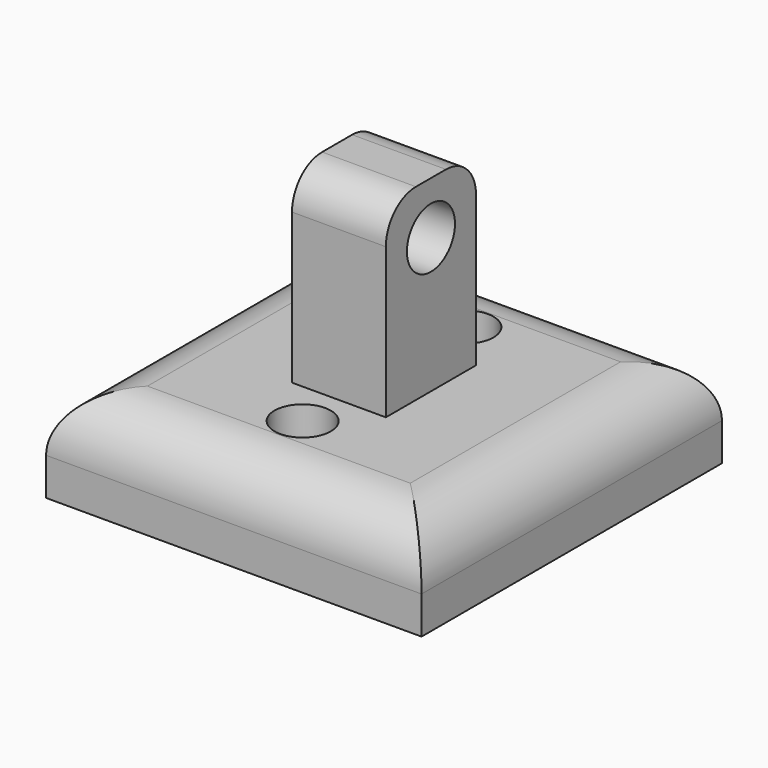
from build123d import *

# Parameters (mm, degrees)
SKETCH_W        = 20
SKETCH_H        = 20
PAD_DEPTH       = 5
SKETCH001_W     = 5
SKETCH001_H     = 6
PAD001_DEPTH    = 10
SKETCH002_R     = 1.6
POCKET_DEPTH    = 12.501
SKETCH003_R     = 1.5
POCKET001_DEPTH = 5.001
FILLET_R        = 3
FILLET001_R     = 2


with BuildPart() as part:
    # Sketch → Pad (new body)
    with BuildSketch(Plane.XY):
        with Locations((-10, 10)):
            Rectangle(SKETCH_W, SKETCH_H)
    extrude(amount=PAD_DEPTH)

    # Sketch001 (on Face6 of Pad) → Pad001 (join)
    with BuildSketch(Plane.XY.offset(5)):
        with Locations((-10, 10)):
            Rectangle(SKETCH001_W, SKETCH001_H)
    extrude(amount=PAD001_DEPTH)

    # Sketch002 (on Face8 of Pad001) → Pocket (cut, through all)
    with BuildSketch(Plane.YZ.offset(-7.5)):
        with Locations((10, 12.205362)):
            Circle(SKETCH002_R)
    extrude(amount=-POCKET_DEPTH, mode=Mode.SUBTRACT)

    # Sketch003 (on Face5 of Pocket) → Pocket001 (cut, through all)
    with BuildSketch(Plane.XY.offset(5)):
        with Locations((-10, 15.417424)):
            Circle(SKETCH003_R)
        with Locations((-10, 4.582576)):
            Circle(SKETCH003_R)
    extrude(amount=-POCKET001_DEPTH, mode=Mode.SUBTRACT)

    # Fillet
    fillet_edges = [part.edges().sort_by_distance(p)[0] for p in [
        (0, 10, 5),
        (-10, 0, 5),
        (-20, 10, 5),
        (-10, 20, 5),
    ]]
    fillet(fillet_edges, radius=FILLET_R)

    # Fillet001
    fillet001_edges = [part.edges().sort_by_distance(p)[0] for p in [
        (-10, 7, 15),
        (-10, 13, 15),
    ]]
    fillet(fillet001_edges, radius=FILLET001_R)


solid = part.part
